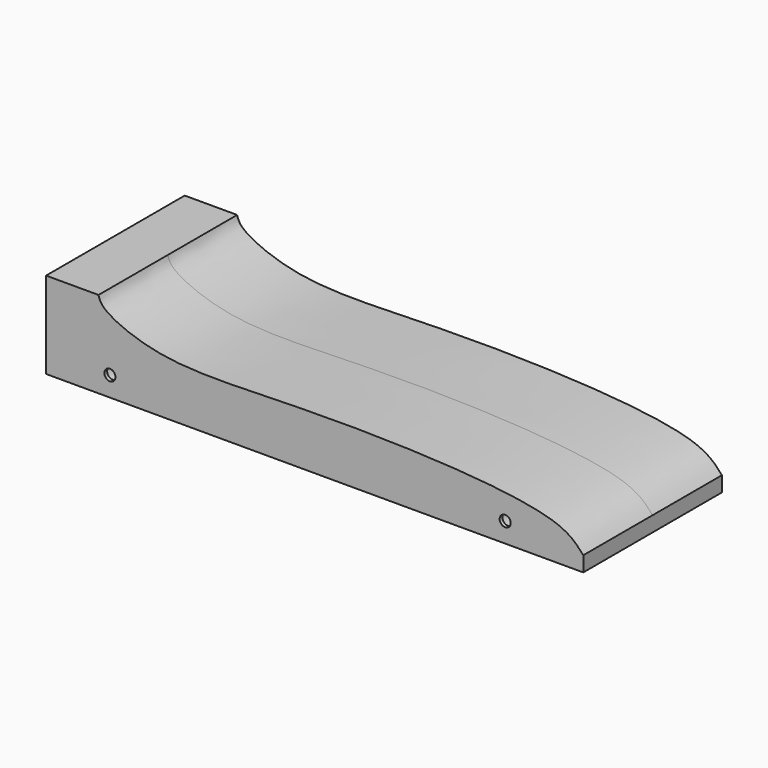
from build123d import *

# Parameters (mm, degrees)
F0_R     = 3
F0_R_2   = 1.6
F1_DEPTH = 25
F2_DEPTH = 24
F3_DEPTH = 24


with BuildPart() as f1:
    # F0 (on Front) → F1 (new body, symmetric)
    with BuildSketch(Plane.XZ):
        with BuildLine():
            Line((-61.6962313652, 2.6412474989), (-76.8291646242, 2.6412474989))
            Line((-76.8291646242, 2.6412474989), (-76.8291646242, -22.3587525011))
            Line((-76.8291646242, -22.3587525011), (78.1708353758, -22.3587525011))
            Line((78.1708353758, -22.3587525011), (78.1708353758, -17.983244732))
            add(Edge.make_bspline(
                [(78.1708353758, -17.983244732), (76.3424520151, -15.8849559066), (69.7492732133, -8.3184938059), (-2.0870551517, -5.889635406), (-41.778677222, -9.3077890022), (-60.5878884114, -1.0564529523), (-61.4411643979, 1.790282338), (-61.6962313652, 2.6412474989)],
                knots=[0, 0, 0, 0, 0.1332108471, 0.4803603839, 0.7584547793, 0.9277956864, 1, 1, 1, 1], degree=3))
        make_face()
        with Locations((-58.4162026644, -16.6311897337)):
            Circle(F0_R, mode=Mode.SUBTRACT)
        with Locations((55.635523051, -16.6311897337)):
            Circle(F0_R, mode=Mode.SUBTRACT)
        with Locations((-58.4162026644, -16.6311897337)):
            Circle(F0_R)
        with Locations((-58.4162026644, -16.6311897337)):
            Circle(F0_R_2, mode=Mode.SUBTRACT)
        with Locations((55.635523051, -16.6311897337)):
            Circle(F0_R)
        with Locations((55.635523051, -16.6311897337)):
            Circle(F0_R_2, mode=Mode.SUBTRACT)
    extrude(amount=F1_DEPTH, both=True)

    # F0 (on Front) → F2 (cut, symmetric)
    with BuildSketch(Plane.XZ):
        with Locations((-58.4162026644, -16.6311897337)):
            Circle(F0_R)
        with Locations((-58.4162026644, -16.6311897337)):
            Circle(F0_R_2, mode=Mode.SUBTRACT)
    extrude(amount=F2_DEPTH, both=True, mode=Mode.SUBTRACT)

    # F0 (on Front) → F3 (cut, symmetric)
    with BuildSketch(Plane.XZ):
        with Locations((55.635523051, -16.6311897337)):
            Circle(F0_R)
        with Locations((55.635523051, -16.6311897337)):
            Circle(F0_R_2, mode=Mode.SUBTRACT)
    extrude(amount=F3_DEPTH, both=True, mode=Mode.SUBTRACT)


solid = f1.part
